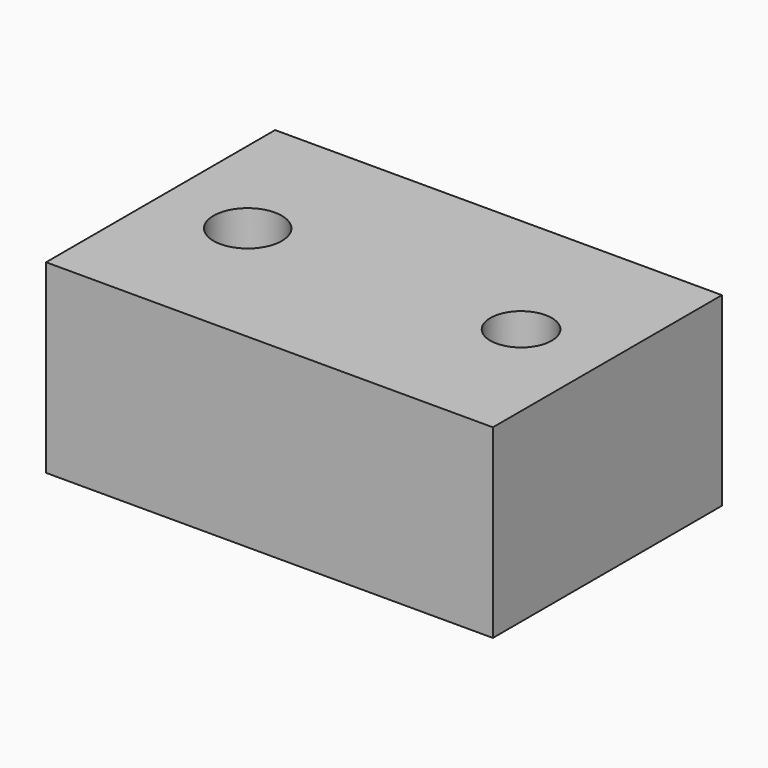
from build123d import *

# Parameters (mm, degrees)
F0_W        = 122.399628
F0_H        = 78.418762
F1_DEPTH    = 50.8
F2_R        = 9.36089
F2_R_2      = 8.424406
F3_DEPTH    = 101.6
F3_FACE_R   = 9.36089
F3_FACE_R_2 = 8.424406
F4_DEPTH    = 101.6


with BuildPart() as f1:
    # F0 (on Top) → F1 (new body)
    with BuildSketch(Plane.XY):
        Rectangle(F0_W, F0_H)
    extrude(amount=F1_DEPTH)

    # F2 (on Top) → F3 (join)
    with BuildSketch(Plane.XY):
        with Locations((-37.34231, 0)):
            Circle(F2_R)
        with Locations((37.549719, 0)):
            Circle(F2_R_2)
    extrude(amount=F3_DEPTH)

    # F3_face (on face) → F4 (cut)
    with BuildSketch(Plane(origin=(-37.34231, 0, 101.6), x_dir=(1, 0, 0), z_dir=(0, 0, 1))):
        Circle(F3_FACE_R)
        with Locations((74.892029, 0)):
            Circle(F3_FACE_R_2)
    extrude(amount=-F4_DEPTH, mode=Mode.SUBTRACT)


solid = f1.part
